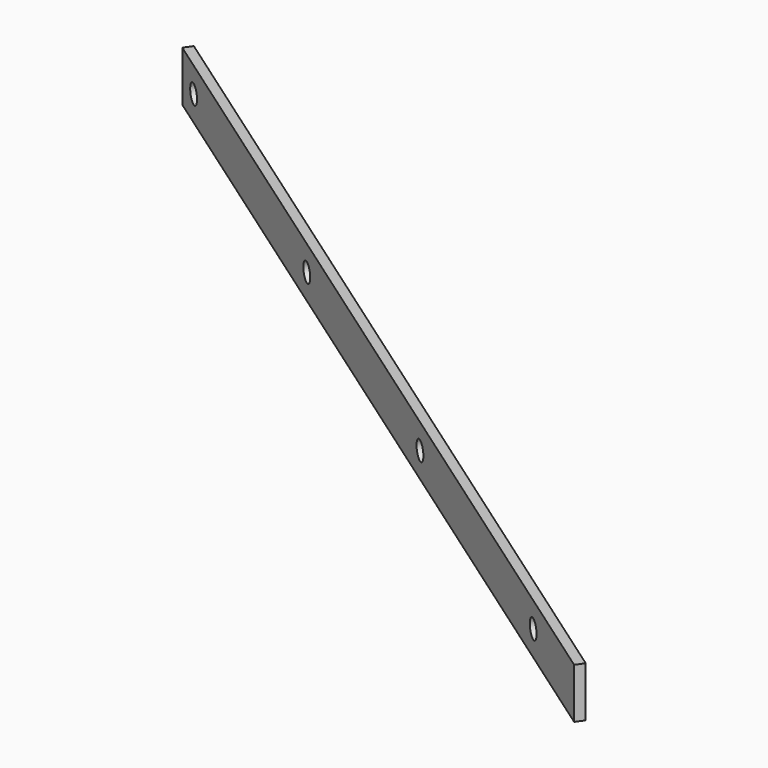
from build123d import *

# Parameters (mm, degrees)
PAD006_DEPTH           = 32
SKETCH044_R            = 6
POCKET006_DEPTH        = 331.323772
LINEARPATTERN004_COUNT = 4
LINEARPATTERN004_PITCH = 200


with BuildPart() as part:
    # Sketch043 → Pad006 (new body)
    with BuildSketch(Plane.XY):
        Polygon((-556.862366, 411.885088), (10.320579, 14.739314), (13.762038, 19.654226), (-553.420907, 416.8), align=None)
    extrude(amount=PAD006_DEPTH)

    # Sketch044 (on Face1 of Pad006) → Pocket006 (cut, through all)
    with BuildSketch(Plane(origin=(10.320579, 14.739314, 0), x_dir=(0.819152, -0.573576, 0), z_dir=(-0.573576, -0.819152, 0))):
        with Locations((-672.402526, 16)):
            Circle(SKETCH044_R)
    pocket006 = extrude(amount=-POCKET006_DEPTH, mode=Mode.SUBTRACT)

    # LinearPattern004: Pocket006 ×4
    with Locations(*[Vector(0.819152, -0.573576, 0) * (i * LINEARPATTERN004_PITCH) for i in range(1, LINEARPATTERN004_COUNT)]):
        add(pocket006, mode=Mode.SUBTRACT)


with BuildPart() as part_1:
    # Body005 placement: moved
    add(part.part.moved(Location((0, 0, 9))))


solid = part_1.part
